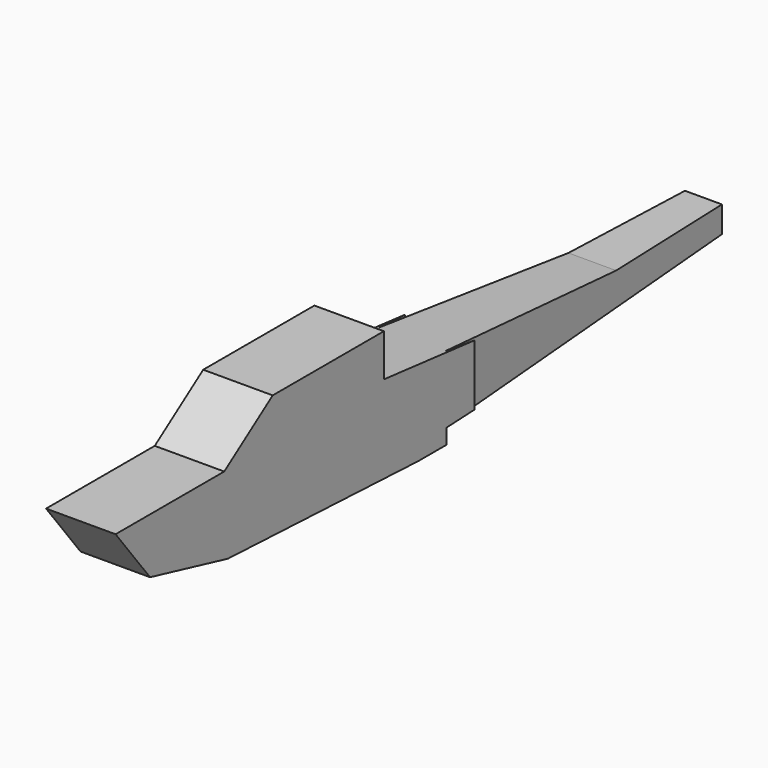
from build123d import *

# Parameters (mm, degrees)
F1_DEPTH = 31.75
F3_DEPTH = 101.6


with BuildPart() as f1:
    # F0 (on Right) → F1 (new body, symmetric)
    with BuildSketch(Plane.YZ):
        Polygon((0, 13.811991), (333.271708, 29.151737), (333.271708, 53.139023), (206.271708, 53.139023), (-71.456109, 81.73925), (-71.456109, 120.487945), (-198.456109, 120.487945), (-253.811393, 81.73925), (-377.928292, 81.73925), (-338.516445, 31.114349), (-249.616445, 9.903682), (-32.045882, 0), (0, 0), align=None)
    extrude(amount=F1_DEPTH, both=True)

    # F2 (on Top) → F3 (cut)
    with BuildSketch(Plane.XY):
        Polygon((-57.091311, 441.582412), (-29.776182, 0), (-12.7, 441.582412), align=None)
        Polygon((12.7, 441.582412), (29.776182, 0), (57.091311, 441.582412), align=None)
    extrude(amount=F3_DEPTH, mode=Mode.SUBTRACT)


solid = f1.part
